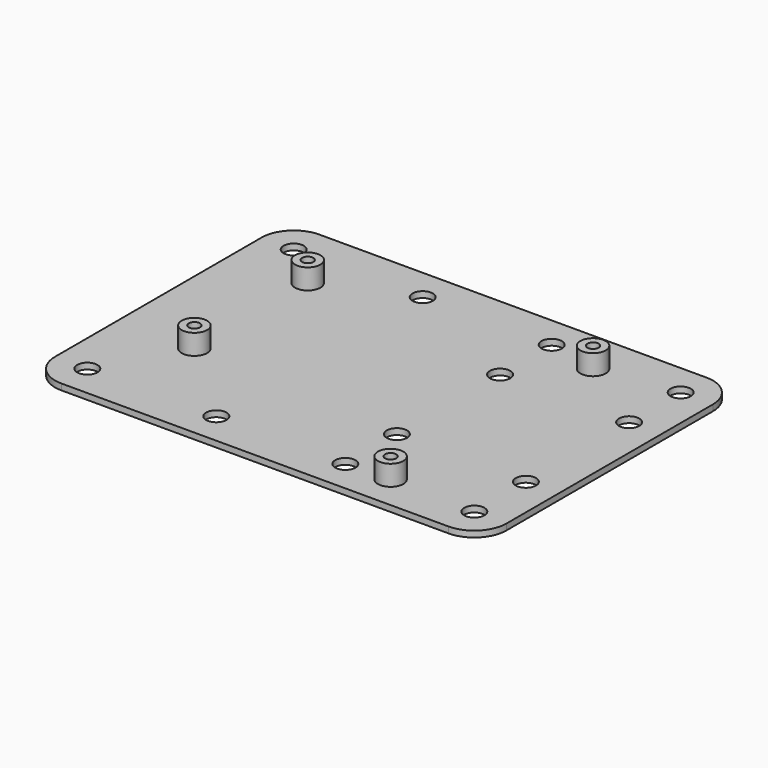
from build123d import *

# Parameters (mm, degrees)
F0_R     = 2
F1_DEPTH = 1.2
F2_R     = 2.5
F2_R_2   = 1.1
F3_DEPTH = 4


with BuildPart() as f1:
    # F0 (on Top) → F1 (new body)
    with BuildSketch(Plane.XY):
        with BuildLine():
            Line((-38.1, -31.75), (38.1, -31.75))
            ThreePointArc((38.1, -31.75), (42.590128, -29.890128), (44.45, -25.4))
            Line((44.45, -25.4), (44.45, 25.4))
            ThreePointArc((44.45, 25.4), (42.590128, 29.890128), (38.1, 31.75))
            Line((38.1, 31.75), (-38.1, 31.75))
            ThreePointArc((-38.1, 31.75), (-42.590128, 29.890128), (-44.45, 25.4))
            Line((-44.45, 25.4), (-44.45, -25.4))
            ThreePointArc((-44.45, -25.4), (-42.590128, -29.890128), (-38.1, -31.75))
        make_face()
        with Locations((-38.1, -25.4)):
            Circle(F0_R, mode=Mode.SUBTRACT)
        with Locations((-12.7, -25.4)):
            Circle(F0_R, mode=Mode.SUBTRACT)
        with Locations((12.7, -25.4)):
            Circle(F0_R, mode=Mode.SUBTRACT)
        with Locations((38.1, -25.4)):
            Circle(F0_R, mode=Mode.SUBTRACT)
        with Locations((12.7, -12.7)):
            Circle(F0_R, mode=Mode.SUBTRACT)
        with Locations((38.1, -12.7)):
            Circle(F0_R, mode=Mode.SUBTRACT)
        with Locations((-38.1, 25.4)):
            Circle(F0_R, mode=Mode.SUBTRACT)
        with Locations((-12.7, 25.4)):
            Circle(F0_R, mode=Mode.SUBTRACT)
        with Locations((12.7, 12.7)):
            Circle(F0_R, mode=Mode.SUBTRACT)
        with Locations((38.1, 12.7)):
            Circle(F0_R, mode=Mode.SUBTRACT)
        with Locations((12.7, 25.4)):
            Circle(F0_R, mode=Mode.SUBTRACT)
        with Locations((38.1, 25.4)):
            Circle(F0_R, mode=Mode.SUBTRACT)
    extrude(amount=F1_DEPTH)

    # F2 (on face) → F3 (join)
    with BuildSketch(Plane.XY.offset(1.2)):
        with Locations((-29.45, 18.03979)):
            Circle(F2_R)
        with Locations((-29.45, 18.03979)):
            Circle(F2_R_2, mode=Mode.SUBTRACT)
        with Locations((-29.45, -9.86021)):
            Circle(F2_R)
        with Locations((-29.45, -9.86021)):
            Circle(F2_R_2, mode=Mode.SUBTRACT)
        with Locations((21.35, -25.06021)):
            Circle(F2_R)
        with Locations((21.35, -25.06021)):
            Circle(F2_R_2, mode=Mode.SUBTRACT)
        with Locations((22.65, 23.13979)):
            Circle(F2_R)
        with Locations((22.65, 23.13979)):
            Circle(F2_R_2, mode=Mode.SUBTRACT)
    extrude(amount=F3_DEPTH)


solid = f1.part
